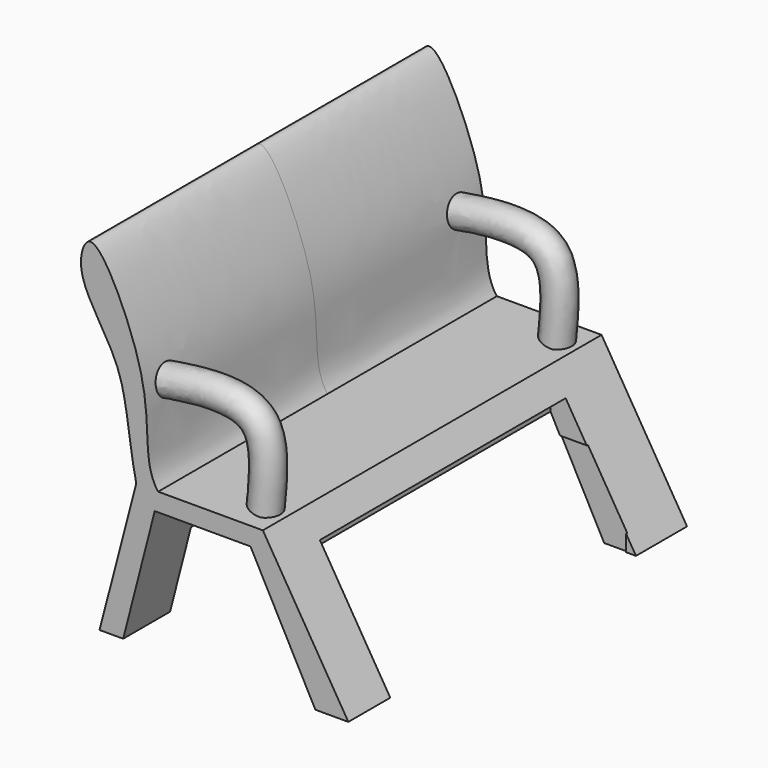
from build123d import *

# Parameters (mm, degrees)
F1_DEPTH      = 70
F5_R          = 5
F8_W          = 100
F8_H          = 36
F9_DEPTH      = 25
F9_DEPTH_BACK = 82
F10_W         = 101.5686318278
F10_H         = 54.9019612372
F11_DEPTH     = 74


with BuildPart() as f1:
    # F0 (on Front) → F1 (new body)
    with BuildSketch(Plane.XZ):
        with BuildLine():
            add(Edge.make_bspline(
                [(-54.4541627169, 43.7472090125), (-58.2051578233, 50.0544994952), (-61.8214989524, 57.3980591225), (-56.2883607402, 72.2123848901), (-39.8904664841, 37.7572271582), (-38.0927316998, 18.5521175803), (-37.9958373216, 4.2857264597), (-34.6203781664, 0)],
                knots=[0, 0, 0, 0, 0.1924185346, 0.3177434817, 0.5733761085, 0.8025419147, 1, 1, 1, 1], degree=3))
            add(Edge.make_bspline(
                [(-54.4541627169, 43.7472090125), (-51.5878610313, 38.8124100864), (-45.1611415108, 29.3643147629), (-44.0639674751, 9.8302959287), (-41.8551415205, 0)],
                knots=[0, 0, 0, 0, 0.4299536381, 1, 1, 1, 1], degree=3))
            Line((-41.8551415205, 0), (-34.6203781664, 0))
        make_face()
        Polygon((0, 0), (-34.6203781664, 0), (-41.8551415205, 0), (-54.0121085942, -46.5759038925), (-46.1769923568, -46.5759038925), (-35.7486307621, -6.0146055184), (-4.0899831802, -6.0146055184), (17.3675455153, -46.5759038925), (28.2721929252, -46.5759038925), align=None)
    extrude(amount=F1_DEPTH)

    # F6: sweep along a path in F3
    with BuildLine(Plane.XZ.offset(60)) as f6_path:
        add(Plane.XZ.offset(60) * Edge.make_bspline(
            [(-41.2592999637, 26.2319147587), (-34.4571497071, 27.3605820145), (-22.1187107369, 29.4078746395), (-5.0564037116, 25.7018406255), (-6.6955182551, 9.344171028), (-7.6318476349, 0)],
            knots=[0, 0, 0, 0, 0.3450327692, 0.6258558846, 1, 1, 1, 1], degree=3))
    # F5 (on offset) → F6 (sweep)
    with BuildSketch(Plane.YZ.offset(-42)):
        with Locations((-60.2205917239, 26.7647076398)):
            Circle(F5_R)
    sweep(path=f6_path.line)

    # F7: F1 across face


with BuildPart() as f1_1:
    add(f1.part)
    add(f1.part.mirror(Plane(origin=(-26.8553578692, 0, -0.4737360335), x_dir=(1, 0, 0), z_dir=(0, 1, 0))))

    # F8 (on Right) → F9 (cut, two sides)
    with BuildSketch(Plane.YZ) as f9_sk:
        with Locations((-0.6255552173, -37.7182170451)):
            Rectangle(F8_W, F8_H)
    extrude(amount=F9_DEPTH, mode=Mode.SUBTRACT)
    extrude(f9_sk.sketch, amount=-F9_DEPTH_BACK, mode=Mode.SUBTRACT)

    # F10 (on Right) → F11 (cut)
    with BuildSketch(Plane.YZ):
        with Locations((-1.8872544169, -35.6862749904)):
            Rectangle(F10_W, F10_H)
    extrude(amount=F11_DEPTH, mode=Mode.SUBTRACT)


solid = f1_1.part
